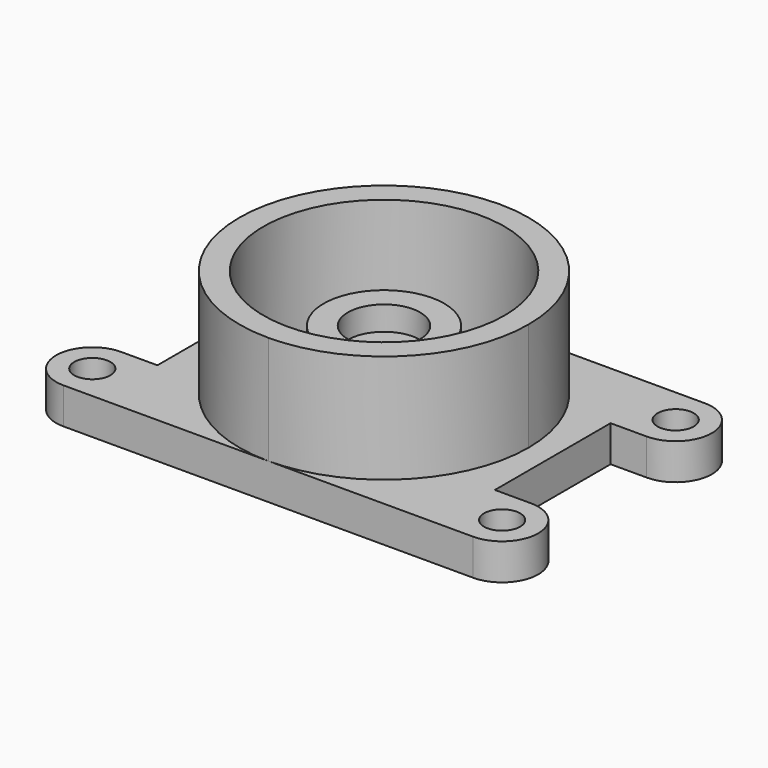
from build123d import *

# Parameters (mm, degrees)
F0_R     = 9.525
F1_DEPTH = 19.05
F0_R_2   = 63.5
F2_DEPTH = 76.2
F0_R_3   = 31.75
F3_DEPTH = 19.05
F0_R_4   = 19.05
F4_DEPTH = 50.8
F0_R_5   = 6.35
F5_DEPTH = 38.1


with BuildPart() as f1:
    # F0 (on Top) → F1 (new body)
    with BuildSketch(Plane.XY):
        with BuildLine():
            ThreePointArc((0, -76.2), (-76.2, 0), (0, 76.2))
            Line((0, 76.2), (-107.95, 76.2))
            ThreePointArc((-107.95, 76.2), (-127, 57.15), (-107.95, 38.1))
            Line((-107.95, 38.1), (-88.9, 38.1))
            Line((-88.9, 38.1), (-88.9, -38.1))
            Line((-88.9, -38.1), (-107.95, -38.1))
            ThreePointArc((-107.95, -38.1), (-127, -57.15), (-107.95, -76.2))
            Line((-107.95, -76.2), (0, -76.2))
        make_face()
        with Locations((-107.95, -57.15)):
            Circle(F0_R, mode=Mode.SUBTRACT)
        with Locations((-107.95, 57.15)):
            Circle(F0_R, mode=Mode.SUBTRACT)
        with BuildLine():
            ThreePointArc((0, 76.2), (53.881537, 53.881537), (76.2, 0))
            ThreePointArc((76.2, 0), (53.881537, -53.881537), (0, -76.2))
            Line((0, -76.2), (107.95, -76.2))
            ThreePointArc((107.95, -76.2), (127, -57.15), (107.95, -38.1))
            Line((107.95, -38.1), (88.9, -38.1))
            Line((88.9, -38.1), (88.9, 38.1))
            Line((88.9, 38.1), (107.95, 38.1))
            ThreePointArc((107.95, 38.1), (127, 57.15), (107.95, 76.2))
            Line((107.95, 76.2), (0, 76.2))
        make_face()
        with Locations((107.95, -57.15)):
            Circle(F0_R, mode=Mode.SUBTRACT)
        with Locations((107.95, 57.15)):
            Circle(F0_R, mode=Mode.SUBTRACT)
    extrude(amount=F1_DEPTH)

    # F0 (on Top) → F2 (join)
    with BuildSketch(Plane.XY):
        with BuildLine():
            ThreePointArc((0, -76.2), (53.881537, -53.881537), (76.2, 0))
            ThreePointArc((76.2, 0), (53.881537, 53.881537), (0, 76.2))
            ThreePointArc((0, 76.2), (-76.2, 0), (0, -76.2))
        make_face()
        Circle(F0_R_2, mode=Mode.SUBTRACT)
    extrude(amount=F2_DEPTH)

    # F0 (on Top) → F3 (join)
    with BuildSketch(Plane.XY):
        Circle(F0_R_2)
        Circle(F0_R_3, mode=Mode.SUBTRACT)
    extrude(amount=F3_DEPTH)

    # F0 (on Top) → F4 (join)
    with BuildSketch(Plane.XY):
        Circle(F0_R_3)
        Circle(F0_R_4, mode=Mode.SUBTRACT)
    extrude(amount=F4_DEPTH)

    # F0 (on Top) → F5 (join)
    with BuildSketch(Plane.XY):
        Circle(F0_R_4)
        Circle(F0_R_5, mode=Mode.SUBTRACT)
    extrude(amount=F5_DEPTH)


solid = f1.part
